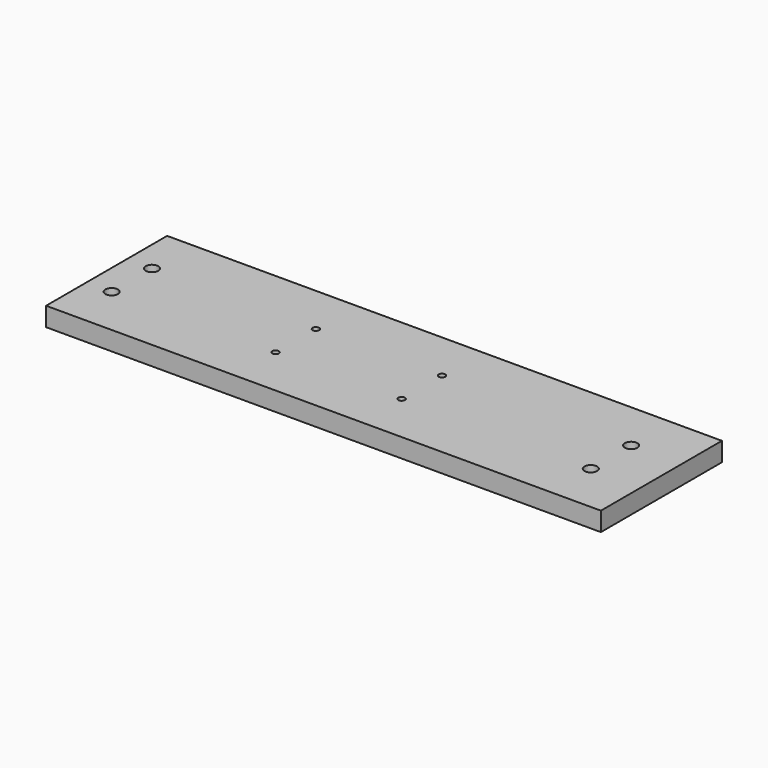
from build123d import *

# Parameters (mm, degrees)
F0_W     = 279.4
F0_H     = 38.1
F0_R     = 3.175
F0_R_2   = 1.651
F1_DEPTH = 9.525


with BuildPart() as f1:
    # F0 (on Top) → F1 (new body)
    with BuildSketch(Plane.XY):
        with Locations((139.7, 57.15)):
            Rectangle(F0_W, F0_H)
        with Locations((12.7, 50.8)):
            Circle(F0_R, mode=Mode.SUBTRACT)
        with Locations((95.25, 50.8)):
            Circle(F0_R_2, mode=Mode.SUBTRACT)
        with Locations((158.75, 50.8)):
            Circle(F0_R_2, mode=Mode.SUBTRACT)
        with Locations((254, 50.8)):
            Circle(F0_R, mode=Mode.SUBTRACT)
        with Locations((139.7, 19.05)):
            Rectangle(F0_W, F0_H)
        with Locations((12.7, 25.4)):
            Circle(F0_R, mode=Mode.SUBTRACT)
        with Locations((95.25, 25.4)):
            Circle(F0_R_2, mode=Mode.SUBTRACT)
        with Locations((158.75, 25.4)):
            Circle(F0_R_2, mode=Mode.SUBTRACT)
        with Locations((254, 25.4)):
            Circle(F0_R, mode=Mode.SUBTRACT)
    extrude(amount=F1_DEPTH)


solid = f1.part
